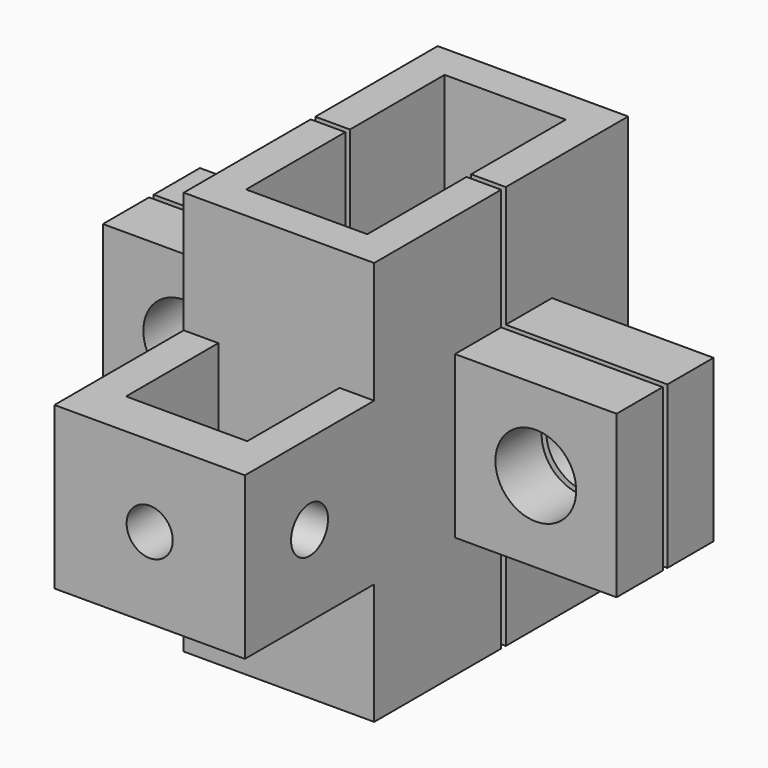
from build123d import *

# Parameters (mm, degrees)
F0_W      = 16.5
F0_H      = 27.5
F1_DEPTH  = 35
F2_W      = 10.5
F2_H      = 21.5
F3_DEPTH  = 35
F4_W      = 3
F4_H      = 0.5
F5_DEPTH  = 35
F6_W      = 5
F6_H      = 14
F7_DEPTH  = 14
F8_R      = 3.5
F9_DEPTH  = 5
F12_W     = 5
F12_H     = 14
F13_DEPTH = 14
F14_R     = 3.5
F15_DEPTH = 255
F17_W     = 3
F17_H     = 14
F18_DEPTH = 10
F19_W     = 16.5
F19_H     = 14
F20_DEPTH = 4
F21_R     = 2
F22_DEPTH = 4
F23_R     = 2
F24_DEPTH = 16.5


with BuildPart() as f1:
    # F0 (on Top) → F1 (new body)
    with BuildSketch(Plane.XY):
        with Locations((-8.25, -13.75)):
            Rectangle(F0_W, F0_H)
    extrude(amount=F1_DEPTH)

    # F2 (on face) → F3 (cut)
    with BuildSketch(Plane.XY.offset(35)):
        with Locations((-8.25, -13.75)):
            Rectangle(F2_W, F2_H)
    extrude(amount=-F3_DEPTH, mode=Mode.SUBTRACT)

    # F4 (on face) → F5 (cut)
    with BuildSketch(Plane.XY.offset(35)):
        with Locations((-1.5, -13.5)):
            Rectangle(F4_W, F4_H)
        with Locations((-15, -13.5)):
            Rectangle(F4_W, F4_H)
    extrude(amount=-F5_DEPTH, mode=Mode.SUBTRACT)

    # F6 (on face) → F7 (join)
    with BuildSketch(Plane(origin=(-16.5, 0, 0), x_dir=(0, -1, 0), z_dir=(-1, 0, 0))):
        with Locations((16.25, 17.5)):
            Rectangle(F6_W, F6_H)
    extrude(amount=F7_DEPTH)

    # F8 (on face) → F9 (cut)
    with BuildSketch(Plane.XZ.offset(18.75)):
        with Locations((-23.5, 17.5)):
            Circle(F8_R)
    extrude(amount=-F9_DEPTH, mode=Mode.SUBTRACT)

    # F11: F1 across plane


with BuildPart() as f1_1:
    add(f1.part)
    add(f1.part.mirror(Plane(origin=(-8.25, -6.625, 17.5), x_dir=(0, -1, 0), z_dir=(-1, 0, 0))))

    # F12 (on face) → F13 (join)
    with BuildSketch(Plane(origin=(-16.5, 0, 0), x_dir=(0, -1, 0), z_dir=(-1, 0, 0))):
        with Locations((10.75, 17.5)):
            Rectangle(F12_W, F12_H)
    extrude(amount=F13_DEPTH)

    # F14 (on face) → F15 (cut)
    with BuildSketch(Plane(origin=(0, -8.25, 0), x_dir=(-1, 0, 0), z_dir=(0, 1, 0))):
        with Locations((23.5, 17.5)):
            Circle(F14_R)
    extrude(amount=-F15_DEPTH, mode=Mode.SUBTRACT)

    # F16: F1 across plane


with BuildPart() as f1_2:
    add(f1_1.part)
    add(f1_1.part.mirror(Plane(origin=(-8.25, -6.625, 17.5), x_dir=(0, -1, 0), z_dir=(-1, 0, 0))))

    # F17 (on face) → F18 (join)
    with BuildSketch(Plane.XZ.offset(27.5)):
        with Locations((-15, 17.5)):
            Rectangle(F17_W, F17_H)
        with Locations((-1.5, 17.5)):
            Rectangle(F17_W, F17_H)
    extrude(amount=F18_DEPTH)

    # F19 (on face) → F20 (join)
    with BuildSketch(Plane.XZ.offset(37.5)):
        with Locations((-8.25, 17.5)):
            Rectangle(F19_W, F19_H)
    extrude(amount=F20_DEPTH)

    # F21 (on face) → F22 (cut)
    with BuildSketch(Plane.XZ.offset(41.5)):
        with Locations((-8.25, 17.5)):
            Circle(F21_R)
    extrude(amount=-F22_DEPTH, mode=Mode.SUBTRACT)

    # F23 (on face) → F24 (cut)
    with BuildSketch(Plane(origin=(-16.5, 0, 0), x_dir=(0, -1, 0), z_dir=(-1, 0, 0))):
        with Locations((34.5, 17.5)):
            Circle(F23_R)
    extrude(amount=-F24_DEPTH, mode=Mode.SUBTRACT)


solid = f1_2.part
